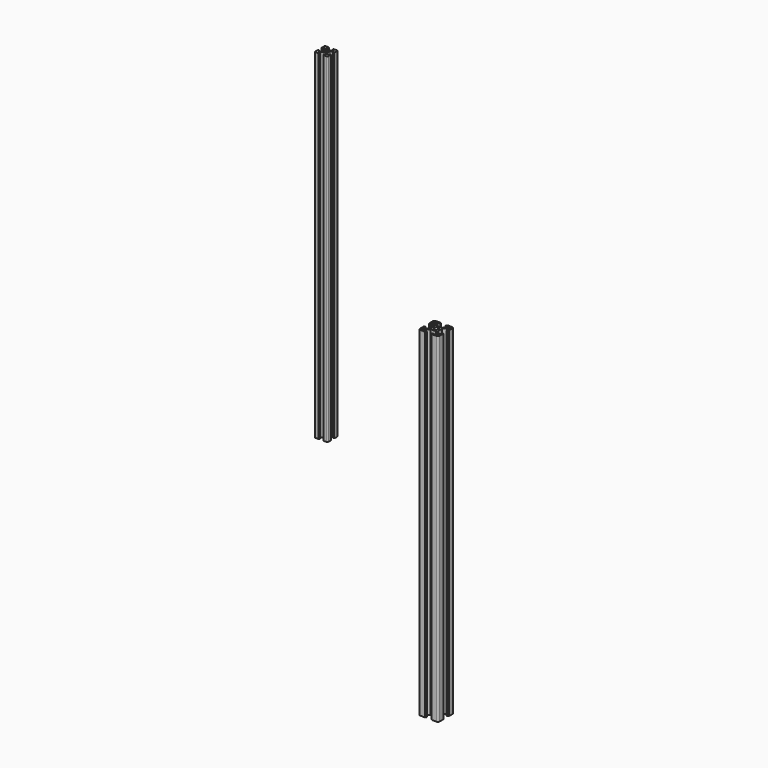
from build123d import *

# Parameters (mm, degrees)
F0_R     = 3.4
F1_DEPTH = 260
F2_R     = 2.5
F3_DEPTH = 520


with BuildPart() as f1:
    # F0 (on Top) → F1 (new body, symmetric)
    with BuildSketch(Plane.XY):
        with BuildLine():
            Line((5.2, -15), (12.5, -15))
            ThreePointArc((12.5, -15), (14.267767, -14.267767), (15, -12.5))
            Line((15, -12.5), (15, -5.2))
            Line((15, -5.2), (14.2, -5.2))
            ThreePointArc((14.2, -5.2), (14.058579, -5.141421), (14, -5))
            Line((14, -5), (14, -4.1))
            Line((14, -4.1), (12.8, -4.1))
            Line((12.8, -4.1), (12.8, -8.25))
            Line((12.8, -8.25), (9.805635, -8.25))
            Line((9.805635, -8.25), (5.8, -4.244365))
            Line((5.8, -4.244365), (5.8, 4.244365))
            Line((5.8, 4.244365), (9.805635, 8.25))
            Line((9.805635, 8.25), (12.8, 8.25))
            Line((12.8, 8.25), (12.8, 4.1))
            Line((12.8, 4.1), (14, 4.1))
            Line((14, 4.1), (14, 5))
            ThreePointArc((14, 5), (14.058579, 5.141421), (14.2, 5.2))
            Line((14.2, 5.2), (15, 5.2))
            Line((15, 5.2), (15, 8.25))
            Line((15, 8.25), (15, 12.5))
            ThreePointArc((15, 12.5), (14.267767, 14.267767), (12.5, 15))
            Line((12.5, 15), (8.25, 15))
            Line((8.25, 15), (5.2, 15))
            Line((5.2, 15), (5.2, 14.3))
            ThreePointArc((5.2, 14.3), (5.112132, 14.087868), (4.9, 14))
            Line((4.9, 14), (4.1, 14))
            Line((4.1, 14), (4.1, 12.8))
            Line((4.1, 12.8), (8.25, 12.8))
            Line((8.25, 12.8), (8.25, 9.805635))
            Line((8.25, 9.805635), (4.244365, 5.8))
            Line((4.244365, 5.8), (-4.244365, 5.8))
            Line((-4.244365, 5.8), (-8.25, 9.805635))
            Line((-8.25, 9.805635), (-8.25, 12.8))
            Line((-8.25, 12.8), (-4.1, 12.8))
            Line((-4.1, 12.8), (-4.1, 14))
            Line((-4.1, 14), (-4.9, 14))
            ThreePointArc((-4.9, 14), (-5.112132, 14.087868), (-5.2, 14.3))
            Line((-5.2, 14.3), (-5.2, 15))
            Line((-5.2, 15), (-12.5, 15))
            ThreePointArc((-12.5, 15), (-14.267767, 14.267767), (-15, 12.5))
            Line((-15, 12.5), (-15, 5.2))
            Line((-15, 5.2), (-14.2, 5.2))
            ThreePointArc((-14.2, 5.2), (-14.058579, 5.141421), (-14, 5))
            Line((-14, 5), (-14, 4.1))
            Line((-14, 4.1), (-12.8, 4.1))
            Line((-12.8, 4.1), (-12.8, 8.25))
            Line((-12.8, 8.25), (-9.805635, 8.25))
            Line((-9.805635, 8.25), (-5.8, 4.244365))
            Line((-5.8, 4.244365), (-5.8, -4.244365))
            Line((-5.8, -4.244365), (-9.805635, -8.25))
            Line((-9.805635, -8.25), (-12.8, -8.25))
            Line((-12.8, -8.25), (-12.8, -4.1))
            Line((-12.8, -4.1), (-14, -4.1))
            Line((-14, -4.1), (-14, -5))
            ThreePointArc((-14, -5), (-14.058579, -5.141421), (-14.2, -5.2))
            Line((-14.2, -5.2), (-15, -5.2))
            Line((-15, -5.2), (-15, -12.5))
            ThreePointArc((-15, -12.5), (-14.267767, -14.267767), (-12.5, -15))
            Line((-12.5, -15), (-5.2, -15))
            Line((-5.2, -15), (-5.2, -14.3))
            ThreePointArc((-5.2, -14.3), (-5.112132, -14.087868), (-4.9, -14))
            Line((-4.9, -14), (-4.1, -14))
            Line((-4.1, -14), (-4.1, -12.8))
            Line((-4.1, -12.8), (-8.25, -12.8))
            Line((-8.25, -12.8), (-8.25, -9.805635))
            Line((-8.25, -9.805635), (-4.244365, -5.8))
            Line((-4.244365, -5.8), (4.244365, -5.8))
            Line((4.244365, -5.8), (8.25, -9.805635))
            Line((8.25, -9.805635), (8.25, -12.8))
            Line((8.25, -12.8), (4.1, -12.8))
            Line((4.1, -12.8), (4.1, -14))
            Line((4.1, -14), (4.9, -14))
            ThreePointArc((4.9, -14), (5.112132, -14.087868), (5.2, -14.3))
            Line((5.2, -14.3), (5.2, -15))
        make_face()
        with BuildLine():
            ThreePointArc((-10.75, -9.75), (-10.042893, -10.042893), (-9.75, -10.75))
            Line((-9.75, -10.75), (-9.75, -12.5))
            ThreePointArc((-9.75, -12.5), (-10.042893, -13.207107), (-10.75, -13.5))
            Line((-10.75, -13.5), (-12.5, -13.5))
            ThreePointArc((-12.5, -13.5), (-13.207107, -13.207107), (-13.5, -12.5))
            Line((-13.5, -12.5), (-13.5, -10.75))
            ThreePointArc((-13.5, -10.75), (-13.207107, -10.042893), (-12.5, -9.75))
            Line((-12.5, -9.75), (-10.75, -9.75))
        make_face(mode=Mode.SUBTRACT)
        with BuildLine():
            Line((10.75, -9.75), (12.5, -9.75))
            ThreePointArc((12.5, -9.75), (13.207107, -10.042893), (13.5, -10.75))
            Line((13.5, -10.75), (13.5, -12.5))
            ThreePointArc((13.5, -12.5), (13.207107, -13.207107), (12.5, -13.5))
            Line((12.5, -13.5), (10.75, -13.5))
            ThreePointArc((10.75, -13.5), (10.042893, -13.207107), (9.75, -12.5))
            Line((9.75, -12.5), (9.75, -10.75))
            ThreePointArc((9.75, -10.75), (10.042893, -10.042893), (10.75, -9.75))
        make_face(mode=Mode.SUBTRACT)
        with BuildLine():
            ThreePointArc((-13.5, 12.5), (-13.207107, 13.207107), (-12.5, 13.5))
            Line((-12.5, 13.5), (-10.75, 13.5))
            ThreePointArc((-10.75, 13.5), (-10.042893, 13.207107), (-9.75, 12.5))
            Line((-9.75, 12.5), (-9.75, 10.75))
            ThreePointArc((-9.75, 10.75), (-10.042893, 10.042893), (-10.75, 9.75))
            Line((-10.75, 9.75), (-12.5, 9.75))
            ThreePointArc((-12.5, 9.75), (-13.207107, 10.042893), (-13.5, 10.75))
            Line((-13.5, 10.75), (-13.5, 12.5))
        make_face(mode=Mode.SUBTRACT)
        Circle(F0_R, mode=Mode.SUBTRACT)
        with BuildLine():
            ThreePointArc((13.5, 10.75), (13.207107, 10.042893), (12.5, 9.75))
            Line((12.5, 9.75), (10.75, 9.75))
            ThreePointArc((10.75, 9.75), (10.042893, 10.042893), (9.75, 10.75))
            Line((9.75, 10.75), (9.75, 12.5))
            ThreePointArc((9.75, 12.5), (10.042893, 13.207107), (10.75, 13.5))
            Line((10.75, 13.5), (12.5, 13.5))
            ThreePointArc((12.5, 13.5), (13.207107, 13.207107), (13.5, 12.5))
            Line((13.5, 12.5), (13.5, 10.75))
        make_face(mode=Mode.SUBTRACT)
    extrude(amount=F1_DEPTH, both=True)


with BuildPart() as f3:
    # F2 (on Top) → F3 (new body)
    with BuildSketch(Plane.XY):
        with BuildLine():
            Line((-233.802474, 78.483754), (-230.802474, 78.483754))
            ThreePointArc((-230.802474, 78.483754), (-229.741813, 78.923094), (-229.302474, 79.983754))
            Line((-229.302474, 79.983754), (-229.302474, 82.983754))
            Line((-229.302474, 82.983754), (-229.302474, 84.883754))
            Line((-229.302474, 84.883754), (-229.602474, 84.883754))
            ThreePointArc((-229.602474, 84.883754), (-229.743895, 84.942332), (-229.802474, 85.083754))
            Line((-229.802474, 85.083754), (-229.802474, 85.383754))
            Line((-229.802474, 85.383754), (-231.102474, 85.383754))
            Line((-231.102474, 85.383754), (-231.102474, 82.983754))
            Line((-231.102474, 82.983754), (-232.741813, 82.983754))
            Line((-232.741813, 82.983754), (-234.816687, 85.058627))
            ThreePointArc((-234.816687, 85.058627), (-235.250233, 85.707474), (-235.402474, 86.472841))
            Line((-235.402474, 86.472841), (-235.402474, 90.494666))
            ThreePointArc((-235.402474, 90.494666), (-235.250233, 91.260033), (-234.816687, 91.90888))
            Line((-234.816687, 91.90888), (-232.741813, 93.983754))
            Line((-232.741813, 93.983754), (-231.102474, 93.983754))
            Line((-231.102474, 93.983754), (-231.102474, 91.583754))
            Line((-231.102474, 91.583754), (-229.802474, 91.583754))
            Line((-229.802474, 91.583754), (-229.802474, 91.883754))
            ThreePointArc((-229.802474, 91.883754), (-229.743895, 92.025175), (-229.602474, 92.083754))
            Line((-229.602474, 92.083754), (-229.302474, 92.083754))
            Line((-229.302474, 92.083754), (-229.302474, 93.983754))
            Line((-229.302474, 93.983754), (-229.302474, 96.983754))
            ThreePointArc((-229.302474, 96.983754), (-229.741813, 98.044414), (-230.802474, 98.483754))
            Line((-230.802474, 98.483754), (-233.802474, 98.483754))
            Line((-233.802474, 98.483754), (-235.202474, 98.483754))
            Line((-235.202474, 98.483754), (-235.702474, 98.483754))
            Line((-235.702474, 98.483754), (-235.702474, 98.183754))
            ThreePointArc((-235.702474, 98.183754), (-235.761052, 98.042332), (-235.902474, 97.983754))
            Line((-235.902474, 97.983754), (-236.202474, 97.983754))
            Line((-236.202474, 97.983754), (-236.202474, 96.683754))
            Line((-236.202474, 96.683754), (-233.802474, 96.683754))
            Line((-233.802474, 96.683754), (-233.802474, 95.044414))
            Line((-233.802474, 95.044414), (-235.877347, 92.96954))
            ThreePointArc((-235.877347, 92.96954), (-236.526194, 92.535995), (-237.291561, 92.383754))
            Line((-237.291561, 92.383754), (-241.313386, 92.383754))
            ThreePointArc((-241.313386, 92.383754), (-242.078753, 92.535995), (-242.7276, 92.96954))
            Line((-242.7276, 92.96954), (-244.802474, 95.044414))
            Line((-244.802474, 95.044414), (-244.802474, 96.683754))
            Line((-244.802474, 96.683754), (-242.402474, 96.683754))
            Line((-242.402474, 96.683754), (-242.402474, 97.983754))
            Line((-242.402474, 97.983754), (-242.702474, 97.983754))
            ThreePointArc((-242.702474, 97.983754), (-242.843895, 98.042332), (-242.902474, 98.183754))
            Line((-242.902474, 98.183754), (-242.902474, 98.483754))
            Line((-242.902474, 98.483754), (-243.402474, 98.483754))
            Line((-243.402474, 98.483754), (-244.802474, 98.483754))
            Line((-244.802474, 98.483754), (-247.802474, 98.483754))
            ThreePointArc((-247.802474, 98.483754), (-248.863134, 98.044414), (-249.302474, 96.983754))
            Line((-249.302474, 96.983754), (-249.302474, 93.983754))
            Line((-249.302474, 93.983754), (-249.302474, 92.083754))
            Line((-249.302474, 92.083754), (-249.002474, 92.083754))
            ThreePointArc((-249.002474, 92.083754), (-248.861052, 92.025175), (-248.802474, 91.883754))
            Line((-248.802474, 91.883754), (-248.802474, 91.583754))
            Line((-248.802474, 91.583754), (-247.502474, 91.583754))
            Line((-247.502474, 91.583754), (-247.502474, 93.983754))
            Line((-247.502474, 93.983754), (-245.863134, 93.983754))
            Line((-245.863134, 93.983754), (-243.78826, 91.90888))
            ThreePointArc((-243.78826, 91.90888), (-243.354715, 91.260033), (-243.202474, 90.494666))
            Line((-243.202474, 90.494666), (-243.202474, 86.472841))
            ThreePointArc((-243.202474, 86.472841), (-243.354715, 85.707474), (-243.78826, 85.058627))
            Line((-243.78826, 85.058627), (-245.863134, 82.983754))
            Line((-245.863134, 82.983754), (-247.502474, 82.983754))
            Line((-247.502474, 82.983754), (-247.502474, 85.383754))
            Line((-247.502474, 85.383754), (-248.802474, 85.383754))
            Line((-248.802474, 85.383754), (-248.802474, 85.083754))
            ThreePointArc((-248.802474, 85.083754), (-248.861052, 84.942332), (-249.002474, 84.883754))
            Line((-249.002474, 84.883754), (-249.302474, 84.883754))
            Line((-249.302474, 84.883754), (-249.302474, 82.983754))
            Line((-249.302474, 82.983754), (-249.302474, 79.983754))
            ThreePointArc((-249.302474, 79.983754), (-248.863134, 78.923094), (-247.802474, 78.483754))
            Line((-247.802474, 78.483754), (-244.802474, 78.483754))
            Line((-244.802474, 78.483754), (-243.402474, 78.483754))
            Line((-243.402474, 78.483754), (-242.902474, 78.483754))
            Line((-242.902474, 78.483754), (-242.902474, 78.783754))
            ThreePointArc((-242.902474, 78.783754), (-242.843895, 78.925175), (-242.702474, 78.983754))
            Line((-242.702474, 78.983754), (-242.402474, 78.983754))
            Line((-242.402474, 78.983754), (-242.402474, 80.283754))
            Line((-242.402474, 80.283754), (-244.802474, 80.283754))
            Line((-244.802474, 80.283754), (-244.802474, 81.923094))
            Line((-244.802474, 81.923094), (-242.7276, 83.997967))
            ThreePointArc((-242.7276, 83.997967), (-242.078753, 84.431513), (-241.313386, 84.583754))
            Line((-241.313386, 84.583754), (-237.291561, 84.583754))
            ThreePointArc((-237.291561, 84.583754), (-236.526194, 84.431513), (-235.877347, 83.997967))
            Line((-235.877347, 83.997967), (-233.802474, 81.923094))
            Line((-233.802474, 81.923094), (-233.802474, 80.283754))
            Line((-233.802474, 80.283754), (-236.202474, 80.283754))
            Line((-236.202474, 80.283754), (-236.202474, 78.983754))
            Line((-236.202474, 78.983754), (-235.902474, 78.983754))
            ThreePointArc((-235.902474, 78.983754), (-235.761052, 78.925175), (-235.702474, 78.783754))
            Line((-235.702474, 78.783754), (-235.702474, 78.483754))
            Line((-235.702474, 78.483754), (-235.202474, 78.483754))
            Line((-235.202474, 78.483754), (-233.802474, 78.483754))
        make_face()
        with Locations((-239.302474, 88.483754)):
            Circle(F2_R, mode=Mode.SUBTRACT)
    extrude(amount=F3_DEPTH)


solid = Compound([f1.part, f3.part])
